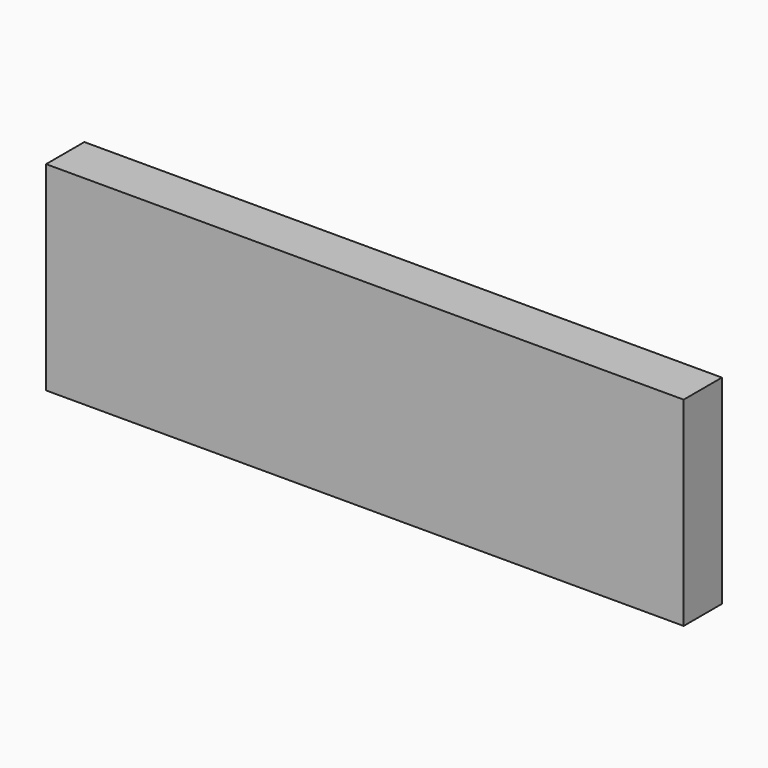
from build123d import *

# Parameters (mm, degrees)
SKETCH_W      = 160
SKETCH_H      = 12
EXTRUDE_DEPTH = 50


with BuildPart() as part:
    # Sketch → Extrude (new body)
    with BuildSketch(Plane.XY):
        Rectangle(SKETCH_W, SKETCH_H)
    extrude(amount=EXTRUDE_DEPTH)


solid = part.part
